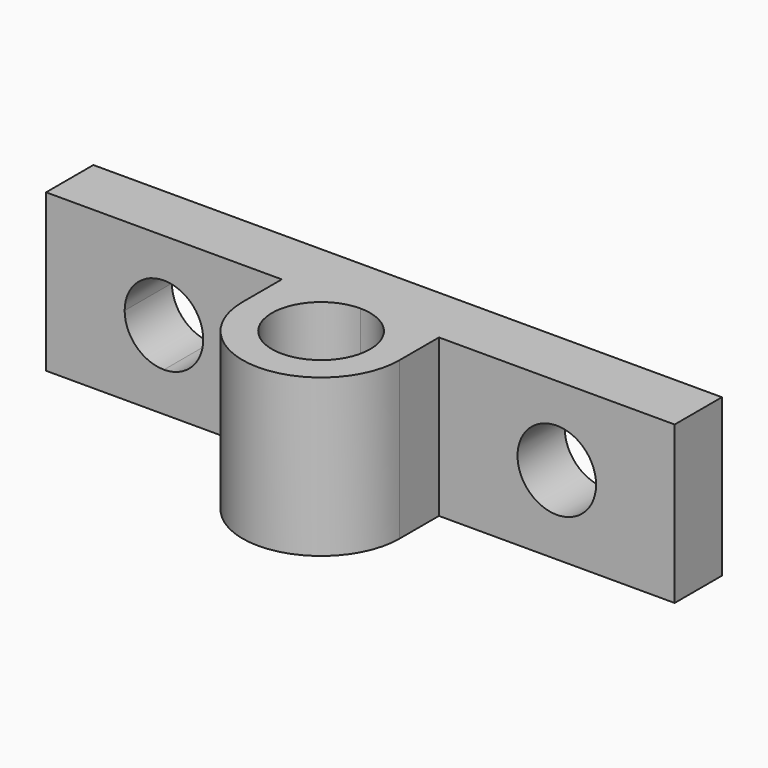
from build123d import *

# Parameters (mm, degrees)
F1_DEPTH = 12.7
F2_R     = 3.175
F3_DEPTH = 4.7752


with BuildPart() as f1:
    # F0 (on Top) → F1 (new body)
    with BuildSketch(Plane.XY):
        Polygon((-25.4, 2.3876), (-25.4, -2.3876), (-6.35, -2.3876), (1.16e-08, -2.3876), (6.35, -2.3876), (25.4, -2.3876), (25.4, 2.3876), align=None)
        with BuildLine():
            Line((1.16e-08, -2.3876), (-6.35, -2.3876))
            Line((-6.35, -2.3876), (-6.35, -6.35635))
            ThreePointArc((-6.35, -6.35635), (0, -12.70635), (6.35, -6.35635))
            Line((6.35, -6.35635), (6.35, -2.3876))
            Line((6.35, -2.3876), (1.16e-08, -2.3876))
        make_face()
        with BuildLine():
            ThreePointArc((3.96875, -6.35635), (-2.8063300419, -9.1626800337), (1.16e-08, -2.3876))
            ThreePointArc((1.16e-08, -2.3876), (2.8063300419, -3.5500199663), (3.96875, -6.35635))
        make_face(mode=Mode.SUBTRACT)
    extrude(amount=F1_DEPTH)

    # F2 (on face) → F3 (cut, through all)
    with BuildSketch(Plane.XZ.offset(2.3876)):
        with BuildLine():
            Line((-15.875, 6.35), (-12.7, 6.35))
            ThreePointArc((-12.7, 6.35), (-13.6299359697, 8.5950640303), (-15.875, 9.525))
            Line((-15.875, 9.525), (-15.875, 6.35))
        make_face()
        with BuildLine():
            ThreePointArc((-15.875, 3.175), (-13.6299359697, 4.1049359697), (-12.7, 6.35))
            Line((-12.7, 6.35), (-15.875, 6.35))
            Line((-15.875, 6.35), (-15.875, 3.175))
        make_face()
        with BuildLine():
            Line((-15.875, 6.35), (-15.875, 9.525))
            ThreePointArc((-15.875, 9.525), (-18.1200640303, 8.5950640303), (-19.05, 6.35))
            Line((-19.05, 6.35), (-15.875, 6.35))
        make_face()
        with BuildLine():
            ThreePointArc((-19.05, 6.35), (-18.1200640303, 4.1049359697), (-15.875, 3.175))
            Line((-15.875, 3.175), (-15.875, 6.35))
            Line((-15.875, 6.35), (-19.05, 6.35))
        make_face()
        with Locations((15.875, 6.35)):
            Circle(F2_R)
    extrude(amount=-F3_DEPTH, mode=Mode.SUBTRACT)


solid = f1.part
